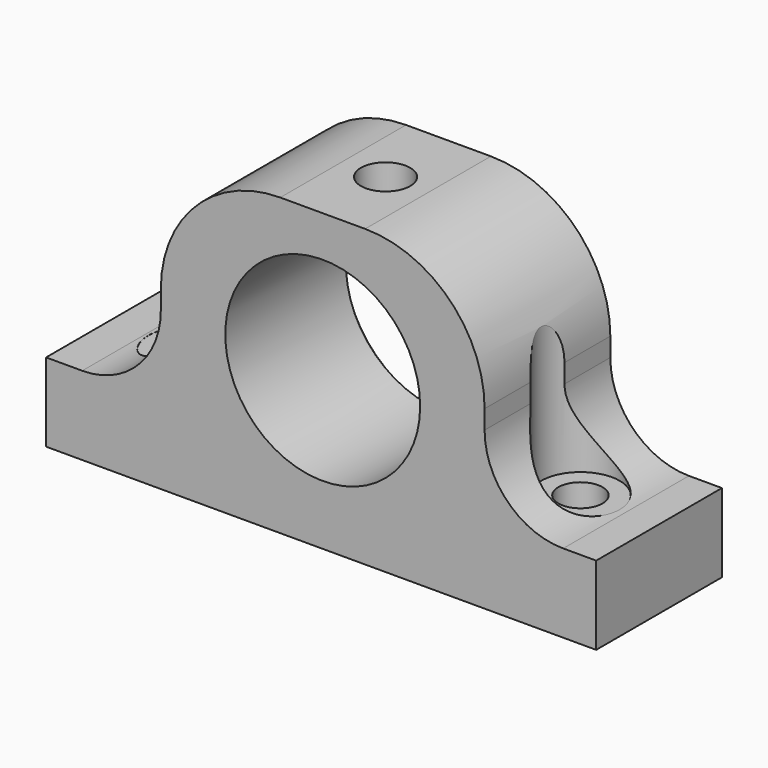
from build123d import *

# Parameters (mm, degrees)
F0_R      = 7.874
F1_DEPTH  = 12.7
F3_D      = 3.5687
F2_R      = 2.3876
F4_DEPTH  = 3.81
F6_R      = 3.175
F7_DEPTH  = 12.7
F9_D      = 3.9878
F9_DEPTH  = 6.35
F9_TIP    = 1.1980559883
F10_SIZE2 = 0.508
F10_SIZE  = 0.508


with BuildPart() as f1:
    # F0 (on Front) → F1 (new body)
    with BuildSketch(Plane.XZ):
        with BuildLine():
            Line((-60.8324925442, 14.3403462902), (-60.8324925442, 7.9903462902))
            Line((-60.8324925442, 7.9903462902), (-16.3824925442, 7.9903462902))
            Line((-16.3824925442, 7.9903462902), (-16.3824925442, 14.3403462902))
            Line((-16.3824925442, 14.3403462902), (-19.0494925442, 14.3403462902))
            ThreePointArc((-19.0494925442, 14.3403462902), (-23.5396206047, 16.2002182296), (-25.3994925442, 20.6903462902))
            Line((-25.3994925442, 20.6903462902), (-25.3994925442, 22.2143462902))
            ThreePointArc((-25.3994925442, 22.2143462902), (-28.2264978922, 29.0393409422), (-35.0514925442, 31.8663462902))
            Line((-35.0514925442, 31.8663462902), (-41.9094925442, 31.8663462902))
            ThreePointArc((-41.9094925442, 31.8663462902), (-48.7344871962, 29.0393409422), (-51.5614925442, 22.2143462902))
            Line((-51.5614925442, 22.2143462902), (-51.5614925442, 20.6903462902))
            ThreePointArc((-51.5614925442, 20.6903462902), (-53.4213644836, 16.2002182296), (-57.9114925442, 14.3403462902))
            Line((-57.9114925442, 14.3403462902), (-60.8324925442, 14.3403462902))
        make_face()
        with Locations((-38.4804925442, 20.6903462902)):
            Circle(F0_R, mode=Mode.SUBTRACT)
    extrude(amount=F1_DEPTH)

    # F3 (through all)
    with Locations(Plane(origin=(0, 0, 7.9903462902), x_dir=(1, 0, 0), z_dir=(0, 0, -1))):
        with Locations((-54.4824925442, 6.35), (-22.7324925442, 6.35)):
            Hole(F3_D / 2)

    # F2 (on face) → F4 (cut)
    with BuildSketch(Plane(origin=(0, 0, 7.9903462902), x_dir=(1, 0, 0), z_dir=(0, 0, -1))):
        with Locations((-54.4824925442, 6.35)):
            Circle(F2_R)
        with Locations((-22.7324925442, 6.35)):
            Circle(F2_R)
    extrude(amount=-F4_DEPTH, mode=Mode.SUBTRACT)

    # F6 (on offset) → F7 (cut)
    with BuildSketch(Plane.XY.offset(27.0403462902)):
        with Locations((-54.4824925442, -6.35)):
            Circle(F6_R)
        with Locations((-22.7324925442, -6.35)):
            Circle(F6_R)
    extrude(amount=-F7_DEPTH, mode=Mode.SUBTRACT)

    # F9
    with Locations(Plane.XY.offset(31.8663462902)):
        with Locations((-38.4804925442, -6.35)):
            Hole(F9_D / 2, depth=F9_DEPTH)
            with Locations((0, 0, -(F9_DEPTH + F9_TIP / 2))):  # 118° drill point
                Cone(0, F9_D / 2, F9_TIP, mode=Mode.SUBTRACT)

    # F10
    f10_edges = [f1.edges().sort_by_distance(p)[0] for p in [
        (-46.354493, 0, 20.690346),
    ]]
    chamfer(f10_edges, length=F10_SIZE, length2=F10_SIZE2)


solid = f1.part
